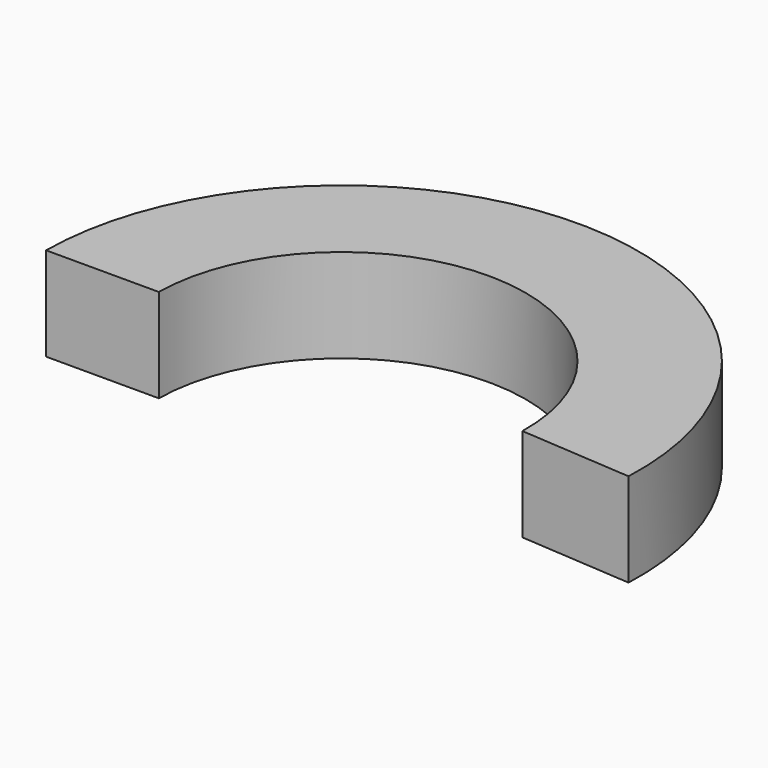
from build123d import *

# Parameters (mm, degrees)
PAD_DEPTH = 10


with BuildPart() as part:
    # Sketch → Pad (new body)
    with BuildSketch(Plane.XY):
        with BuildLine():
            ThreePointArc((19.683205, 30.995601), (0.336845, 51.13361), (-19.687163, 31.66928))
            Line((-31.728331, 31.66928), (-19.687163, 31.66928))
            ThreePointArc((31.702332, 30.14498), (0.762261, 63.168031), (-31.728331, 31.66928))
            Line((19.683205, 30.995601), (31.702332, 30.14498))
        make_face()
    extrude(amount=PAD_DEPTH)


solid = part.part
